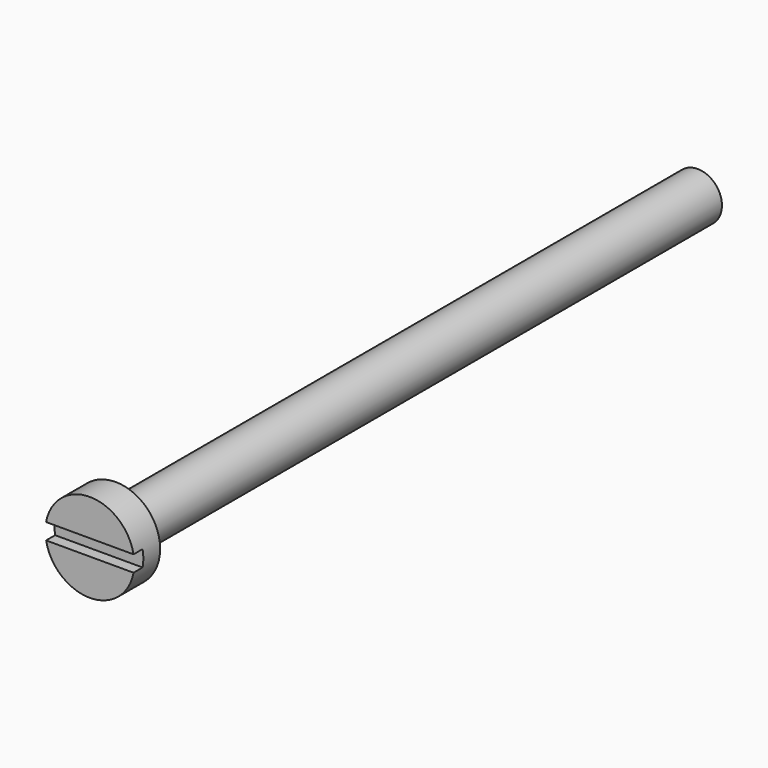
from build123d import *

# Parameters (mm, degrees)
F0_R     = 2.75
F1_DEPTH = 2
F3_DEPTH = 0.7
F4_R     = 1.5
F5_DEPTH = 45


with BuildPart() as f1:
    # F0 (on Front) → F1 (new body)
    with BuildSketch(Plane.XZ):
        Circle(F0_R)
    extrude(amount=F1_DEPTH)

    # F2 (on face) → F3 (cut)
    with BuildSketch(Plane.XZ.offset(2)):
        with BuildLine():
            ThreePointArc((2.75, 0), (2.7385168893, 0.2510482965), (2.7041634566, 0.5))
            Line((2.7041634566, 0.5), (-2.7041634566, 0.5))
            ThreePointArc((-2.7041634566, 0.5), (-2.75, 0), (-2.7041634566, -0.5))
            Line((-2.7041634566, -0.5), (2.7041634566, -0.5))
            ThreePointArc((2.7041634566, -0.5), (2.7385168893, -0.2510482965), (2.75, 0))
        make_face()
    extrude(amount=-F3_DEPTH, mode=Mode.SUBTRACT)

    # F4 (on face) → F5 (join)
    with BuildSketch(Plane(origin=(0, 0, 0), x_dir=(-1, 0, 0), z_dir=(0, 1, 0))):
        Circle(F4_R)
    extrude(amount=F5_DEPTH)


solid = f1.part
